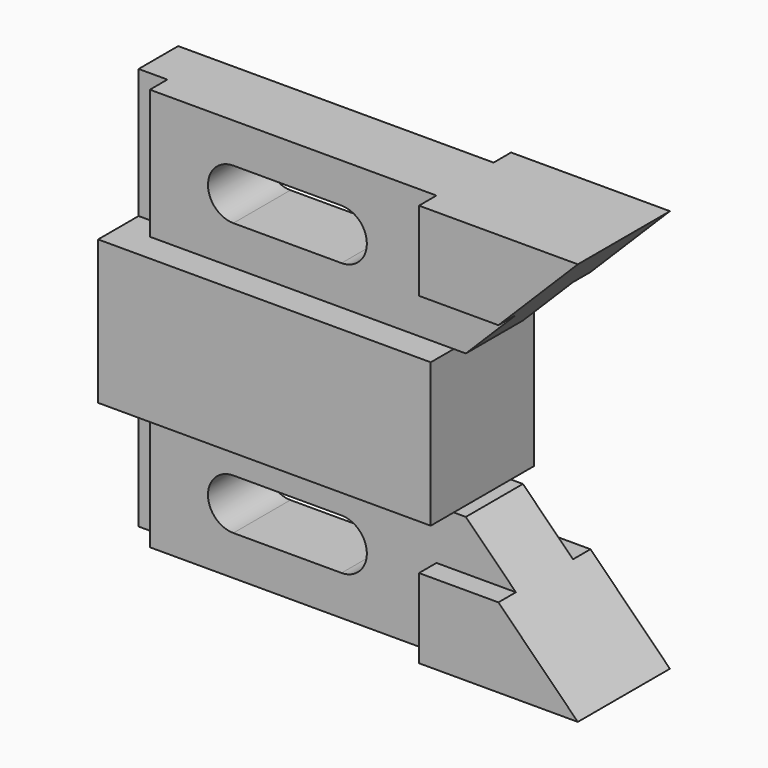
from build123d import *

# Parameters (mm, degrees)
F0_W      = 73.406
F0_H      = 31.75
F1_DEPTH  = 14.224
F2_W      = 15.748
F2_H      = 28.575
F3_DEPTH  = 104.648
F5_DEPTH  = 22.099
F7_DEPTH  = 12.7
F8_W      = 6.35
F8_H      = 28.575
F9_DEPTH  = 4.826
F11_DEPTH = 22.099


with BuildPart() as f1:
    # F0 (on Front) → F1 (new body, symmetric)
    with BuildSketch(Plane.XZ):
        Rectangle(F0_W, F0_H)
    extrude(amount=F1_DEPTH, both=True)

    # F2 (on face) → F3 (join)
    with BuildSketch(Plane(origin=(-36.703, 0, 0), x_dir=(0, -1, 0), z_dir=(-1, 0, 0))):
        with Locations((0, 30.1625)):
            Rectangle(F2_W, F2_H)
    extrude(amount=-F3_DEPTH)

    # F4 (on face) → F5 (cut, through all)
    with BuildSketch(Plane.XZ.offset(7.874)):
        Polygon((67.945, 15.875), (67.945, 44.45), (39.37, 15.875), align=None)
    extrude(amount=-F5_DEPTH, mode=Mode.SUBTRACT)

    # F6 (on Front) → F7 (join, symmetric)
    with BuildSketch(Plane.XZ):
        Polygon((50.419, 26.924), (67.945, 44.45), (32.893, 44.45), (32.893, 26.924), align=None)
    extrude(amount=F7_DEPTH, both=True)

    # F8 (on face) → F9 (cut)
    with BuildSketch(Plane.XZ.offset(7.874)):
        with Locations((-33.528, 30.1625)):
            Rectangle(F8_W, F8_H)
    extrude(amount=-F9_DEPTH, mode=Mode.SUBTRACT)

    # F10 (on face) → F11 (cut, through all)
    with BuildSketch(Plane.XZ.offset(7.874)):
        with BuildLine():
            Line((-11.938, 24.511), (11.938, 24.511))
            ThreePointArc((11.938, 24.511), (6.35, 30.099), (11.938, 35.687))
            Line((11.938, 35.687), (-11.938, 35.687))
            ThreePointArc((-11.938, 35.687), (-7.986687, 34.050313), (-6.35, 30.099))
            ThreePointArc((-6.35, 30.099), (-7.986687, 26.147687), (-11.938, 24.511))
        make_face()
        with BuildLine():
            ThreePointArc((11.938, 35.687), (6.35, 30.099), (11.938, 24.511))
            ThreePointArc((11.938, 24.511), (15.889313, 26.147687), (17.526, 30.099))
            ThreePointArc((17.526, 30.099), (15.889313, 34.050313), (11.938, 35.687))
        make_face()
        with BuildLine():
            ThreePointArc((-11.938, 35.687), (-17.526, 30.099), (-11.938, 24.511))
            ThreePointArc((-11.938, 24.511), (-7.986687, 26.147687), (-6.35, 30.099))
            ThreePointArc((-6.35, 30.099), (-7.986687, 34.050313), (-11.938, 35.687))
        make_face()
    extrude(amount=-F11_DEPTH, mode=Mode.SUBTRACT)

    # F12: F1 across plane


with BuildPart() as f1_1:
    add(f1.part)
    add(f1.part.mirror(Plane.XY))


solid = f1_1.part
